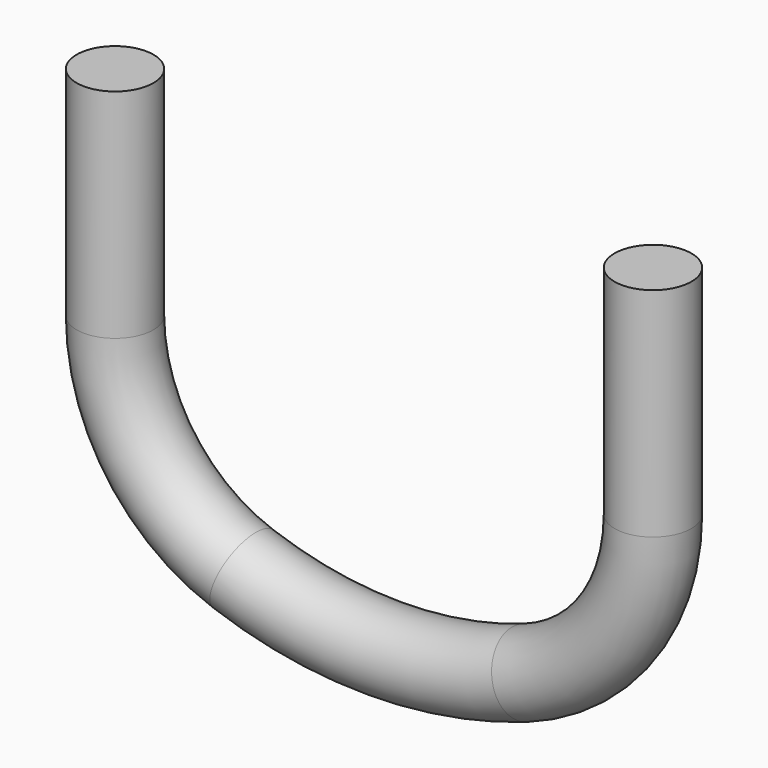
from build123d import *

# Parameters (mm, degrees)
F2_R = 5


with BuildPart() as f3:
    # F3: sweep along a path in F0
    with BuildLine(Plane.XZ) as f3_path:
        Line((35, 22.4288592663), (35, -5.8554119812))
        ThreePointArc((35, -5.8554119812), (30.4124145232, -20.2891687109), (18.3333333333, -29.4256380207))
        ThreePointArc((18.3333333333, -29.4256380207), (0, -32.5711407337), (-18.3333333333, -29.4256380207))
        ThreePointArc((-18.3333333333, -29.4256380207), (-30.4124145232, -20.2891687109), (-35, -5.8554119812))
        Line((-35, -5.8554119812), (-35, 22.4288592663))
    # F2 (on plane+point) → F3 (sweep)
    with BuildSketch(Plane.XY.offset(22.4288592663)):
        with Locations((-35, 0)):
            Circle(F2_R)
    sweep(path=f3_path.line)


solid = f3.part
